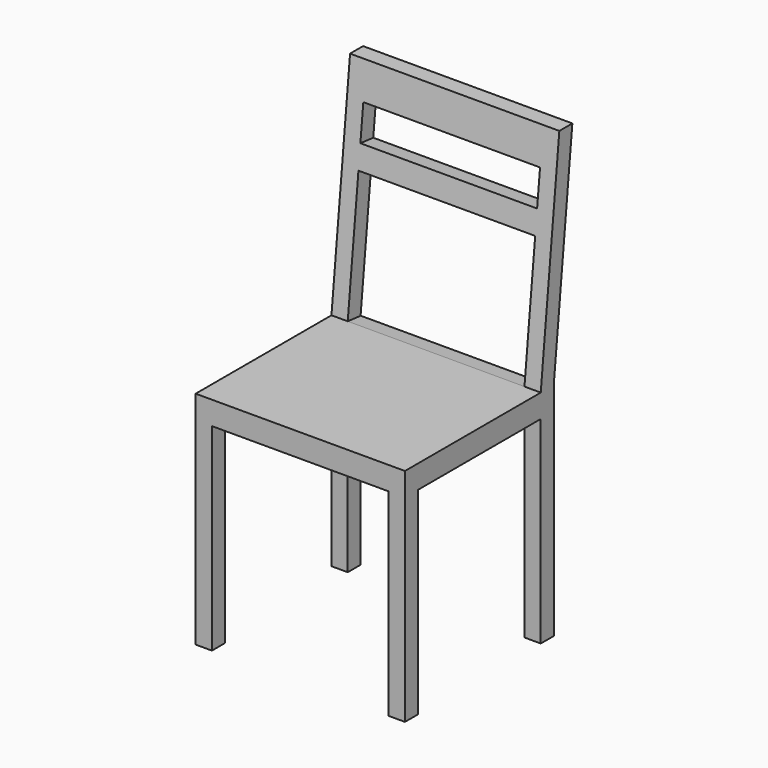
from build123d import *

# Parameters (mm, degrees)
F0_W     = 450
F0_H     = 450
F1_DEPTH = 950
F2_W     = 50
F2_H     = 50
F2_H_2   = 425
F2_W_2   = 330
F3_DEPTH = 450.001
F4_W     = 380
F4_H     = 425
F5_DEPTH = 450.001
F6_W     = 380
F6_H     = 75
F6_H_2   = 275
F7_DEPTH = 134.2592361444


with BuildPart() as f1:
    # F0 (on Top) → F1 (new body)
    with BuildSketch(Plane.XY):
        Rectangle(F0_W, F0_H)
    extrude(amount=F1_DEPTH)

    # F2 (on face) → F3 (cut, through all)
    with BuildSketch(Plane.YZ.offset(225)):
        Polygon((-225, 950), (-225, 475), (140, 475), (190, 950), align=None)
        Polygon((225, 950), (175, 475), (225, 475), align=None)
        with Locations((200, 450)):
            Rectangle(F2_W, F2_H)
        with Locations((200, 212.5)):
            Rectangle(F2_W, F2_H_2)
        with Locations((-25, 212.5)):
            Rectangle(F2_W_2, F2_H_2)
    extrude(amount=-F3_DEPTH, mode=Mode.SUBTRACT)

    # F4 (on face) → F5 (cut, through all)
    with BuildSketch(Plane.XZ.offset(225)):
        with Locations((0, 212.5)):
            Rectangle(F4_W, F4_H)
    extrude(amount=-F5_DEPTH, mode=Mode.SUBTRACT)

    # F6 (on face) → F7 (cut, through all)
    with BuildSketch(Plane(origin=(0, 89.0136986301, -9.3698630137), x_dir=(1, 0, 0), z_dir=(0, -0.9945054529, 0.1046847845))):
        with Locations((0, 849.5459599702)):
            Rectangle(F6_W, F6_H)
        with Locations((0, 624.5459599702)):
            Rectangle(F6_W, F6_H_2)
    extrude(amount=-F7_DEPTH, mode=Mode.SUBTRACT)


solid = f1.part
